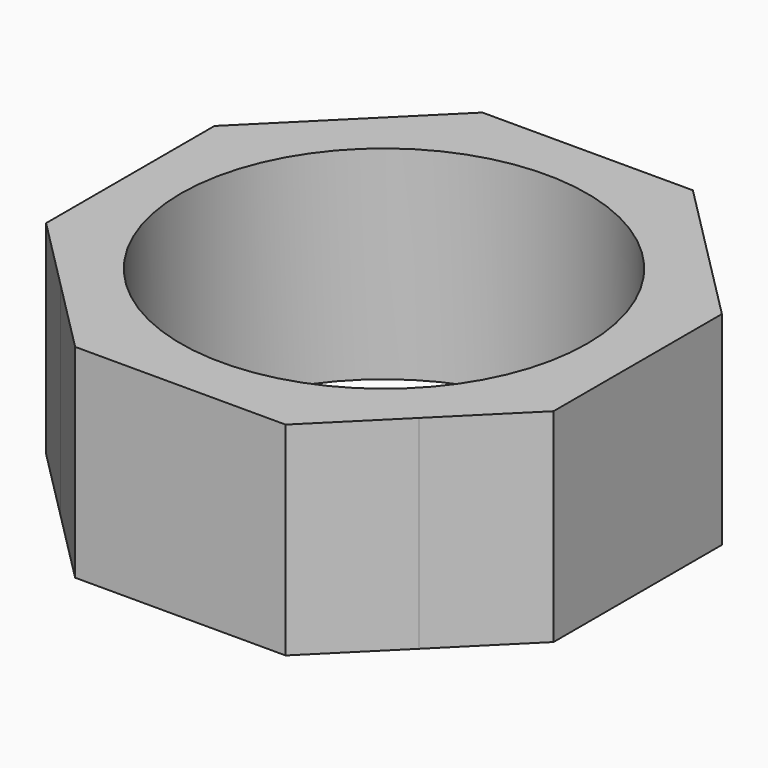
from build123d import *

# Parameters (mm, degrees)
F1_DEPTH = 1
F2_R     = 1
F3_DEPTH = 25


with BuildPart() as f1:
    # F0 (on Top) → F1 (new body)
    with BuildSketch(Plane.XY):
        Polygon((-0.881542, 0.886219), (0, 0), (0, 1.25), (-0.515831, 1.25), align=None)
        Polygon((0.881542, -0.886219), (0, 0), (0, -1.25), (0.515831, -1.25), align=None)
        Polygon((0.886219, 0.881542), (0, 0), (1.25, 0), (1.25, 0.515831), align=None)
        Polygon((-0.886219, -0.881542), (0, 0), (-1.25, 0), (-1.25, -0.515831), align=None)
        Polygon((0, 1.25), (0, 0), (0.886219, 0.881542), (0.519705, 1.25), align=None)
        Polygon((0, -1.25), (0, 0), (-0.886219, -0.881542), (-0.519705, -1.25), align=None)
        Polygon((1.25, 0), (0, 0), (0.881542, -0.886219), (1.25, -0.519705), align=None)
        Polygon((-1.25, 0), (0, 0), (-0.881542, 0.886219), (-1.25, 0.519705), align=None)
    extrude(amount=F1_DEPTH)

    # F2 (on face) → F3 (cut)
    with BuildSketch(Plane.XY.offset(1)):
        Circle(F2_R)
    extrude(amount=-F3_DEPTH, mode=Mode.SUBTRACT)


solid = f1.part
